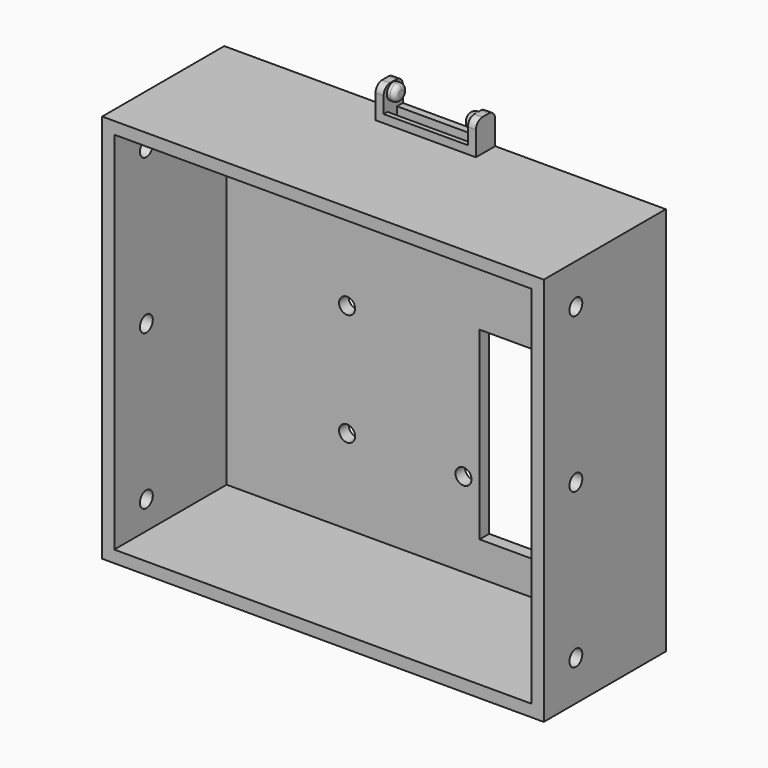
from build123d import *

# Parameters (mm, degrees)
F0_W      = 110
F0_H      = 97
F0_R      = 2
F0_W_2    = 16
F0_H_2    = 46
F1_DEPTH  = 3
F2_W      = 22
F2_H      = 1.6
F3_DEPTH  = 1.6
F4_W      = 110
F4_H      = 97
F4_W_2    = 104
F4_H_2    = 91
F5_DEPTH  = 35
F6_W      = 25
F6_H      = 6
F7_DEPTH  = 8
F8_W      = 21
F8_H      = 3
F9_DEPTH  = 25
F11_DEPTH = 25
F12_W     = 21
F12_H     = 6
F13_DEPTH = 7
F15_DEPTH = 2
F16_R     = 1.207107
F18_DEPTH = 2
F19_R     = 1.2
F20_R     = 2
F21_DEPTH = 110.001


with BuildPart() as f1:
    # F0 (on Front) → F1 (new body)
    with BuildSketch(Plane.XZ):
        with Locations((67.24338, -70.311934)):
            Rectangle(F0_W, F0_H)
        with Locations((45.24338, -94.811934)):
            Circle(F0_R, mode=Mode.SUBTRACT)
        with Locations((74.24338, -94.811934)):
            Circle(F0_R, mode=Mode.SUBTRACT)
        with Locations((86.24338, -84.311934)):
            Rectangle(F0_W_2, F0_H_2, mode=Mode.SUBTRACT)
        with Locations((45.24338, -66.811934)):
            Circle(F0_R, mode=Mode.SUBTRACT)
    extrude(amount=F1_DEPTH)

    # F2 (on Front) → F3 (join)
    with BuildSketch(Plane.XZ):
        with Locations((67.24338, -25.611934)):
            Rectangle(F2_W, F2_H)
    extrude(amount=F3_DEPTH)

    # F4 (on face) → F5 (join)
    with BuildSketch(Plane.XZ.offset(3)):
        with Locations((67.24338, -70.311934)):
            Rectangle(F4_W, F4_H)
        with Locations((67.24338, -70.311934)):
            Rectangle(F4_W_2, F4_H_2, mode=Mode.SUBTRACT)
    extrude(amount=F5_DEPTH)

    # F6 (on face) → F7 (join)
    with BuildSketch(Plane.XY.offset(-21.811934)):
        with Locations((67.24338, -3)):
            Rectangle(F6_W, F6_H)
    extrude(amount=F7_DEPTH)

    # F8 (on face) → F9 (cut)
    with BuildSketch(Plane.XY.offset(-13.811934)):
        with Locations((67.24338, -3.3)):
            Rectangle(F8_W, F8_H)
    extrude(amount=-F9_DEPTH, mode=Mode.SUBTRACT)

    # F10 (on face) → F11 (cut)
    with BuildSketch(Plane(origin=(54.74338, 0, 0), x_dir=(0, -1, 0), z_dir=(-1, 0, 0))):
        with BuildLine():
            ThreePointArc((0, -15.811934), (0.585786, -14.397721), (2, -13.811934))
            Line((2, -13.811934), (0, -13.811934))
            Line((0, -13.811934), (0, -15.811934))
        make_face()
        with BuildLine():
            Line((6, -13.811934), (4, -13.811934))
            ThreePointArc((4, -13.811934), (5.414214, -14.397721), (6, -15.811934))
            Line((6, -15.811934), (6, -13.811934))
        make_face()
    extrude(amount=-F11_DEPTH, mode=Mode.SUBTRACT)

    # F12 (on face) → F13 (cut)
    with BuildSketch(Plane(origin=(0, 0, 0), x_dir=(-1, 0, 0), z_dir=(0, 1, 0))):
        with Locations((-67.24338, -16.811934)):
            Rectangle(F12_W, F12_H)
    extrude(amount=-F13_DEPTH, mode=Mode.SUBTRACT)

    # F14 (on face) → F15 (join)
    with BuildSketch(Plane(origin=(77.74338, 0, 0), x_dir=(0, -1, 0), z_dir=(-1, 0, 0))):
        with BuildLine():
            ThreePointArc((3, -13.961934), (1.621142, -17.290793), (4.95, -15.911934))
            ThreePointArc((4.95, -15.911934), (4.378858, -14.533076), (3, -13.961934))
        make_face()
    extrude(amount=F15_DEPTH)

    # F16
    f16_edges = [f1.edges().sort_by_distance(p)[0] for p in [
        (75.74338, -1.05, -15.911934),
    ]]
    fillet(f16_edges, radius=F16_R)

    # F17 (on face) → F18 (join)
    with BuildSketch(Plane.YZ.offset(56.74338)):
        with BuildLine():
            ThreePointArc((-3, -13.911934), (-4.414214, -17.326148), (-1, -15.911934))
            ThreePointArc((-1, -15.911934), (-1.585786, -14.497721), (-3, -13.911934))
        make_face()
    extrude(amount=F18_DEPTH)

    # F19
    f19_edges = [f1.edges().sort_by_distance(p)[0] for p in [
        (58.74338, -5, -15.911934),
    ]]
    fillet(f19_edges, radius=F19_R)

    # F20 (on face) → F21 (cut, through all)
    with BuildSketch(Plane.YZ.offset(122.24338)):
        with Locations((-28, -31.811934)):
            Circle(F20_R)
        with Locations((-28, -108.811934)):
            Circle(F20_R)
        with Locations((-28, -70.311934)):
            Circle(F20_R)
    extrude(amount=-F21_DEPTH, mode=Mode.SUBTRACT)


solid = f1.part
